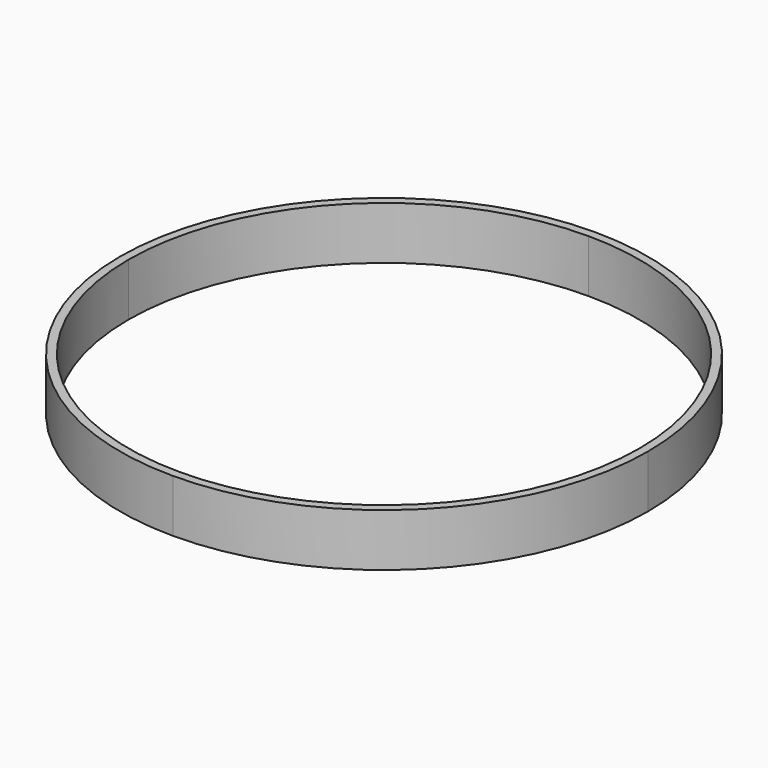
from build123d import *

# Parameters (mm, degrees)
F1_DEPTH = 100


with BuildPart() as f1:
    # F0 (on Top) → F1 (new body)
    with BuildSketch(Plane.XY):
        with BuildLine():
            Line((0, 484), (0, 500))
            ThreePointArc((0, 500), (-353.553391, 353.553391), (-500, 0))
            Line((-500, 0), (-484, 0))
            ThreePointArc((-484, 0), (-342.239682, 342.239682), (0, 484))
        make_face()
        with BuildLine():
            ThreePointArc((-500, 0), (-353.553391, -353.553391), (0, -500))
            Line((0, -500), (0, -484))
            ThreePointArc((0, -484), (-342.239682, -342.239682), (-484, 0))
            Line((-484, 0), (-500, 0))
        make_face()
        with BuildLine():
            ThreePointArc((0, -500), (353.553391, -353.553391), (500, 0))
            Line((500, 0), (484, 0))
            ThreePointArc((484, 0), (342.239682, -342.239682), (0, -484))
            Line((0, -484), (0, -500))
        make_face()
        with BuildLine():
            Line((484, 0), (500, 0))
            ThreePointArc((500, 0), (353.553391, 353.553391), (0, 500))
            Line((0, 500), (0, 484))
            ThreePointArc((0, 484), (342.239682, 342.239682), (484, 0))
        make_face()
    extrude(amount=F1_DEPTH)


solid = f1.part
